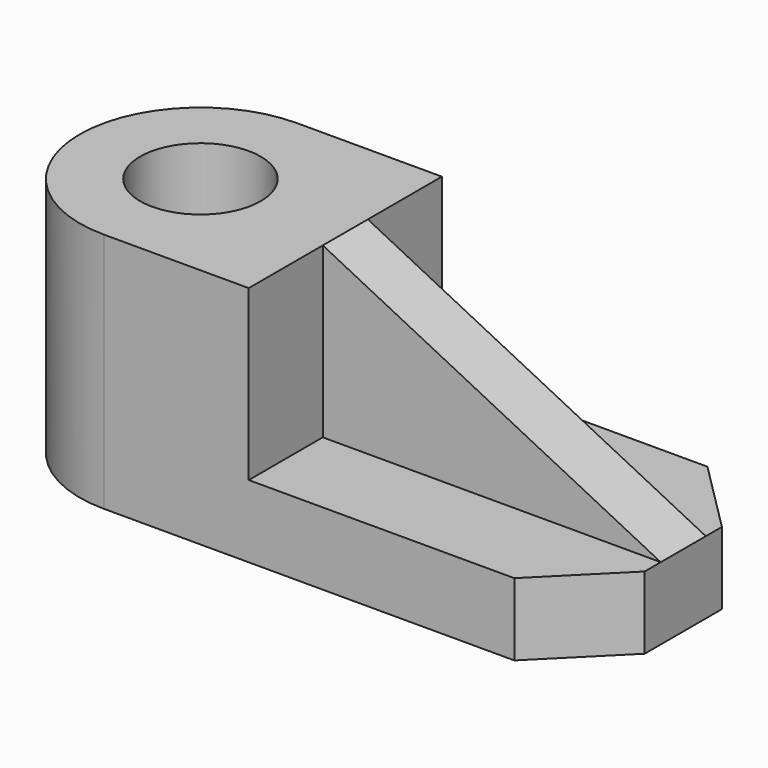
from build123d import *

# Parameters (mm, degrees)
F0_R     = 7.5
F1_DEPTH = 30
F0_W     = 42
F0_H     = 30
F2_DEPTH = 9
F3_SIZE  = 9
F5_DEPTH = 3.5


with BuildPart() as f1:
    # F0 (on Top) → F1 (new body)
    with BuildSketch(Plane.XY):
        with BuildLine():
            Line((-42.561927, 15), (-60.561927, 15))
            ThreePointArc((-60.561927, 15), (-75.561927, 0), (-60.561927, -15))
            Line((-60.561927, -15), (-42.561927, -15))
            Line((-42.561927, -15), (-42.561927, 15))
        make_face()
        with Locations((-60.561927, 0)):
            Circle(F0_R, mode=Mode.SUBTRACT)
    extrude(amount=F1_DEPTH)

    # F0 (on Top) → F2 (join)
    with BuildSketch(Plane.XY):
        with Locations((-21.561927, 0)):
            Rectangle(F0_W, F0_H)
    extrude(amount=F2_DEPTH)

    # F3
    f3_edges = [f1.edges().sort_by_distance(p)[0] for p in [
        (-0.561927, -15, 4.5),
        (-0.561927, 15, 4.5),
    ]]
    chamfer(f3_edges, length=F3_SIZE)

    # F4 (on Front) → F5 (join, symmetric)
    with BuildSketch(Plane.XZ):
        Polygon((-0.561927, 9), (-42.561927, 30), (-42.561927, 9), align=None)
    extrude(amount=F5_DEPTH, both=True)


solid = f1.part
